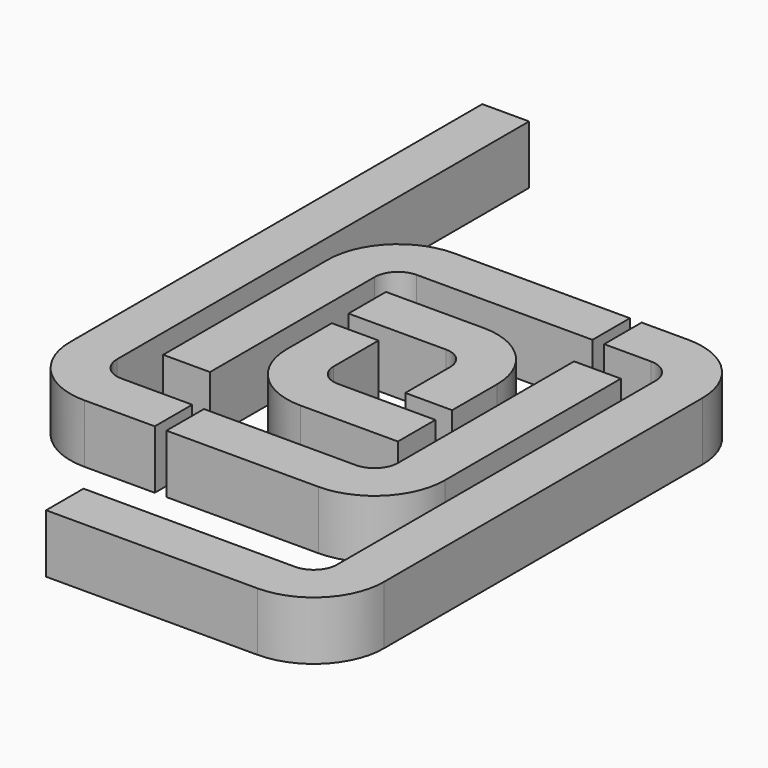
from build123d import *

# Parameters (mm, degrees)
F1_DEPTH = 25


with BuildPart() as f1:
    # F0 (on Top) → F1 (new body)
    with BuildSketch(Plane.XY):
        with BuildLine():
            ThreePointArc((-193.38666, -112.029996), (-200.457728, -109.101064), (-203.38666, -102.029996))
            Line((-203.38666, -102.029996), (-203.38666, 117.970004))
            Line((-203.38666, 117.970004), (-223.38666, 117.970004))
            Line((-223.38666, 117.970004), (-223.38666, -102.029996))
            ThreePointArc((-223.38666, -102.029996), (-214.599864, -123.243199), (-193.38666, -132.029996))
            Line((-193.38666, -132.029996), (-163.292595, -132.029996))
            Line((-163.292595, -132.029996), (-163.292595, -112.029996))
            Line((-163.292595, -112.029996), (-193.38666, -112.029996))
        make_face()
        with BuildLine():
            ThreePointArc((-173.38666, -2.029996), (-170.457728, 5.041072), (-163.38666, 7.970004))
            Line((-163.38666, 7.970004), (-88.317789, 7.970004))
            Line((-88.317789, 7.970004), (-88.317789, 27.970004))
            Line((-88.317789, 27.970004), (-163.38666, 27.970004))
            ThreePointArc((-163.38666, 27.970004), (-184.599864, 19.183207), (-193.38666, -2.029996))
            Line((-193.38666, -2.029996), (-193.38666, -89.927316))
            Line((-193.38666, -89.927316), (-173.38666, -89.927316))
            Line((-173.38666, -89.927316), (-173.38666, -2.029996))
        make_face()
        with BuildLine():
            ThreePointArc((-134.770494, -69.927316), (-141.098153, -67.306314), (-143.719155, -60.978656))
            Line((-143.719155, -60.978656), (-143.719155, -36.978656))
            Line((-143.719155, -36.978656), (-163.719155, -36.978656))
            Line((-163.719155, -36.978656), (-163.719155, -60.978656))
            ThreePointArc((-163.719155, -60.978656), (-155.240288, -81.44845), (-134.770494, -89.927316))
            Line((-134.770494, -89.927316), (-93.105506, -89.927316))
            Line((-93.105506, -89.927316), (-93.105506, -69.927316))
            Line((-93.105506, -69.927316), (-134.770494, -69.927316))
        make_face()
        with BuildLine():
            ThreePointArc((-83.38666, -102.029996), (-86.315593, -109.101064), (-93.38666, -112.029996))
            Line((-93.38666, -112.029996), (-158.292595, -112.029996))
            Line((-158.292595, -112.029996), (-158.292595, -132.029996))
            Line((-158.292595, -132.029996), (-93.38666, -132.029996))
            ThreePointArc((-93.38666, -132.029996), (-72.173457, -123.243199), (-63.38666, -102.029996))
            Line((-63.38666, -102.029996), (-63.38666, -8.029996))
            Line((-63.38666, -8.029996), (-83.38666, -8.029996))
            Line((-83.38666, -8.029996), (-83.38666, -102.029996))
        make_face()
        with BuildLine():
            ThreePointArc((-63.38666, 7.970004), (-56.315593, 5.041072), (-53.38666, -2.029996))
            Line((-53.38666, -2.029996), (-53.38666, -172.029996))
            ThreePointArc((-53.38666, -172.029996), (-56.315593, -179.101064), (-63.38666, -182.029996))
            Line((-63.38666, -182.029996), (-153.719155, -182.029996))
            Line((-153.719155, -182.029996), (-153.719155, -202.029996))
            Line((-153.719155, -202.029996), (-63.38666, -202.029996))
            ThreePointArc((-63.38666, -202.029996), (-42.173457, -193.243199), (-33.38666, -172.029996))
            Line((-33.38666, -172.029996), (-33.38666, -2.029996))
            ThreePointArc((-33.38666, -2.029996), (-42.173457, 19.183207), (-63.38666, 27.970004))
            Line((-63.38666, 27.970004), (-83.317789, 27.970004))
            Line((-83.317789, 27.970004), (-83.317789, 7.970004))
            Line((-83.317789, 7.970004), (-63.38666, 7.970004))
        make_face()
        with BuildLine():
            Line((-113.105506, -36.978656), (-113.105506, -60.978656))
            Line((-113.105506, -60.978656), (-93.105506, -60.978656))
            Line((-93.105506, -60.978656), (-93.105506, -36.978656))
            ThreePointArc((-93.105506, -36.978656), (-101.584372, -16.508862), (-122.054166, -8.029996))
            Line((-122.054166, -8.029996), (-163.719155, -8.029996))
            Line((-163.719155, -8.029996), (-163.719155, -28.029996))
            Line((-163.719155, -28.029996), (-122.054166, -28.029996))
            ThreePointArc((-122.054166, -28.029996), (-115.726508, -30.650998), (-113.105506, -36.978656))
        make_face()
    extrude(amount=F1_DEPTH)


solid = f1.part
